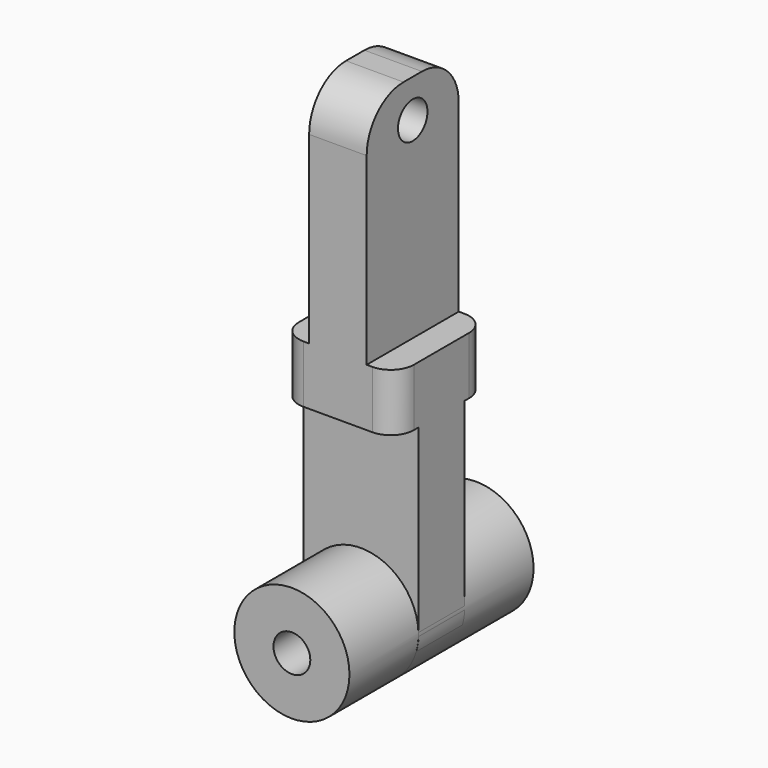
from build123d import *

# Parameters (mm, degrees)
SKETCH_W          = 10
SKETCH_H          = 10
PAD_DEPTH         = 5
SKETCH001_W       = 5
SKETCH001_H       = 10
PAD001_DEPTH      = 20
SKETCH002_W       = 10
SKETCH002_H       = 5
PAD002_DEPTH      = 20
SKETCH003_R       = 1.6
POCKET_DEPTH      = 5
SKETCH004_R       = 1.6
POCKET001_DEPTH   = 7.501
FILLET_R          = 4
FILLET001_R       = 2
SKETCH006_R       = 5.00235
PAD003_DEPTH      = 7.5
PAD003_DEPTH_BACK = 12.5
SKETCH007_R       = 1.6
POCKET002_DEPTH   = 20.001


with BuildPart() as part:
    # Sketch → Pad (new body)
    with BuildSketch(Plane.XY):
        with Locations((-5, 5)):
            Rectangle(SKETCH_W, SKETCH_H)
    extrude(amount=PAD_DEPTH)

    # Sketch001 (on Face6 of Pad) → Pad001 (join)
    with BuildSketch(Plane.XY.offset(5)):
        with Locations((-5, 5)):
            Rectangle(SKETCH001_W, SKETCH001_H)
    extrude(amount=PAD001_DEPTH)

    # Sketch002 (on Face4 of Pad001) → Pad002 (join)
    with BuildSketch(Plane(origin=(0, 0, 0), x_dir=(1, 0, 0), z_dir=(0, 0, -1))):
        with Locations((-5, -5)):
            Rectangle(SKETCH002_W, SKETCH002_H)
    extrude(amount=PAD002_DEPTH)

    # Sketch003 (on Face17 of Pad002) → Pocket (cut)
    with BuildSketch(Plane(origin=(0, 7.5, 0), x_dir=(-1, 0, 0), z_dir=(0, 1, 0))):
        with Locations((5, -15.846688)):
            Circle(SKETCH003_R)
    extrude(amount=-POCKET_DEPTH, mode=Mode.SUBTRACT)

    # Sketch004 (on Face14 of Pocket) → Pocket001 (cut, through all)
    with BuildSketch(Plane(origin=(-7.5, 0, 0), x_dir=(0, -1, 0), z_dir=(-1, 0, 0))):
        with Locations((-5, 21.683375)):
            Circle(SKETCH004_R)
    extrude(amount=-POCKET001_DEPTH, mode=Mode.SUBTRACT)

    # Fillet
    fillet_edges = [part.edges().sort_by_distance(p)[0] for p in [
        (-10, 5, -20),
        (0, 5, -20),
        (-5, 10, 25),
        (-5, 0, 25),
    ]]
    fillet(fillet_edges, radius=FILLET_R)

    # Fillet001
    fillet001_edges = [part.edges().sort_by_distance(p)[0] for p in [
        (-10, 10, 2.5),
        (-10, 0, 2.5),
        (0, 10, 2.5),
        (0, 0, 2.5),
    ]]
    fillet(fillet001_edges, radius=FILLET001_R)

    # Sketch006 (on Face9 of Fillet001) → Pad003 (join, two sides)
    with BuildSketch(Plane.XZ.offset(-2.5)) as pad003_sk:
        with Locations((-5, -15.846688)):
            Circle(SKETCH006_R)
    extrude(amount=PAD003_DEPTH)
    extrude(pad003_sk.sketch, amount=-PAD003_DEPTH_BACK)

    # Sketch007 (on Face27 of Pad003) → Pocket002 (cut, through all)
    with BuildSketch(Plane.XZ.offset(5)):
        with Locations((-5, -15.846688)):
            Circle(SKETCH007_R)
    extrude(amount=-POCKET002_DEPTH, mode=Mode.SUBTRACT)


solid = part.part
